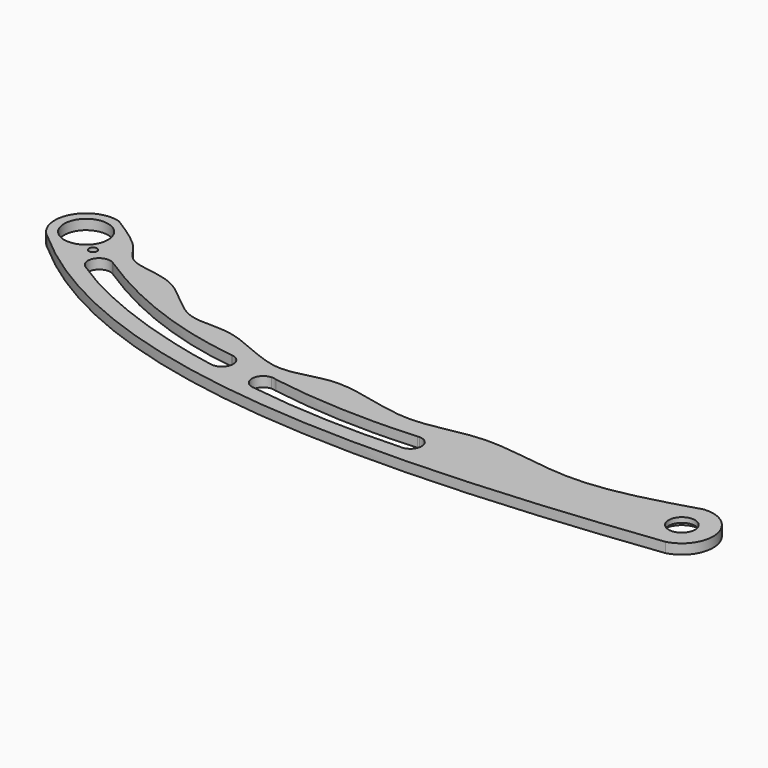
from build123d import *

# Parameters (mm, degrees)
F0_R      = 2.667
F0_R_2    = 4.445
F1_DEPTH  = 2.032
F2_R      = 3.81
F2_R_2    = 2.667
F3_DEPTH  = 1.016
F4_R      = 0.8255
F5_DEPTH  = 25.4
F6_R      = 1.27
F6_R_2    = 0.8255
F7_DEPTH  = 1.016
F8_DEPTH  = 1.016
F9_R      = 1.27
F9_R_2    = 0.8255
F9_R_3    = 3.81
F9_R_4    = 2.667
F10_DEPTH = 1.016


with BuildPart() as f1:
    # F0 (on Top) → F1 (new body)
    with BuildSketch(Plane.XY):
        with BuildLine():
            add(Edge.make_bspline(
                [(-161.8766367465, -26.7160857284), (-130.4493884094, -54.4638294888), (-80.5808308072, -54.6738259655), (-20.0722847609, -47.2300497458)],
                knots=[0, 0, 0, 0, 143.280483534, 143.280483534, 143.280483534, 143.280483534], degree=3))
            ThreePointArc((-20.0722847609, -47.2300497458), (-15.390001915, -39.9851293612), (-22.2514018559, -34.7569523483))
            add(Edge.make_bspline(
                [(-156.4800007469, -15.3977959233), (-153.6670469943, -17.1765727386), (-148.7731033235, -20.2587965776), (-146.6099811998, -25.8330587175), (-136.0128934045, -25.1342998567), (-128.3796792681, -35.5257497726), (-118.2156379975, -32.7590187221), (-105.6351490845, -41.2223918449), (-94.8487286588, -35.010807072), (-78.6016535491, -41.7378023992), (-64.4508698612, -35.8858094626), (-44.8537704329, -41.5304431339), (-30.0356448791, -37.0910134537), (-22.2514018559, -34.7569523483)],
                knots=[0, 0, 0, 0, 0.0778729538, 0.1353570321, 0.2133944217, 0.300436546, 0.3792539685, 0.4740248133, 0.5597806174, 0.6631841528, 0.7615873053, 0.8747557561, 1, 1, 1, 1], degree=3))
            ThreePointArc((-156.4800007469, -15.3977959233), (-164.000427073, -18.7577274432), (-161.8766367465, -26.7160857284))
        make_face()
        with BuildLine():
            ThreePointArc((-148.393819837, -27.0904692349), (-148.310357627, -27.1426555234), (-148.2292193976, -27.1983864569))
            add(Edge.make_bspline(
                [(-148.2292193976, -27.1983864569), (-137.6321480969, -34.1306532721), (-126.3183058185, -38.5379448266), (-113.7849666433, -40.1356662582)],
                knots=[0.1905782604, 0.1905782604, 0.1905782604, 0.1905782604, 36.9863141476, 36.9863141476, 36.9863141476, 36.9863141476], degree=3))
            ThreePointArc((-113.7849666433, -40.1356662582), (-113.6751067023, -40.14683148), (-113.5659141167, -40.1632889417))
            ThreePointArc((-113.5659141167, -40.1632889417), (-111.7187992975, -42.8596706899), (-114.4552984959, -44.646813612))
            add(Edge.make_bspline(
                [(-150.611741506, -31.0860356173), (-140.2867734432, -37.9869937897), (-126.2515187263, -42.5168909132), (-114.4552984959, -44.646813612)],
                knots=[0, 0, 0, 0, 38.6158396383, 38.6158396383, 38.6158396383, 38.6158396383], degree=3))
            ThreePointArc((-150.611741506, -31.0860356173), (-151.5624731778, -27.9449259977), (-148.393819837, -27.0904692349))
        make_face(mode=Mode.SUBTRACT)
        with BuildLine():
            ThreePointArc((-104.0907971602, -42.1303299726), (-103.5959305004, -42.1579114528), (-103.1186399475, -42.2915059031))
            add(Edge.make_bspline(
                [(-103.1186399475, -42.2915059031), (-93.7665900622, -43.8001112121), (-83.5344509582, -44.2502244434), (-73.3660695221, -43.5309403586)],
                knots=[1.0336368061, 1.0336368061, 1.0336368061, 1.0336368061, 30.7652598931, 30.7652598931, 30.7652598931, 30.7652598931], degree=3))
            ThreePointArc((-73.3660695221, -43.5309403586), (-73.161688582, -43.5068783258), (-72.9559718672, -43.5012941239))
            ThreePointArc((-72.9559718672, -43.5012941239), (-70.7192546717, -45.9826317274), (-73.3464785843, -48.0460353787))
            add(Edge.make_bspline(
                [(-104.0962413714, -46.6956290273), (-93.8536599278, -48.1598563492), (-83.6125984788, -48.5345311463), (-73.3464785843, -48.0460353787)],
                knots=[0, 0, 0, 0, 30.7794007215, 30.7794007215, 30.7794007215, 30.7794007215], degree=3))
            ThreePointArc((-104.0962413714, -46.6956290273), (-106.2558256689, -44.4104009059), (-104.0907971602, -42.1303299726))
        make_face(mode=Mode.SUBTRACT)
        with Locations((-21.6452580647, -41.0779562009)):
            Circle(F0_R, mode=Mode.SUBTRACT)
        with Locations((-158.2686344631, -21.490684354)):
            Circle(F0_R_2, mode=Mode.SUBTRACT)
    extrude(amount=F1_DEPTH)

    # F2 (on face) → F3 (cut)
    with BuildSketch(Plane.XY.offset(2.032)):
        with Locations((-21.6452580647, -41.0779562009)):
            Circle(F2_R)
        with Locations((-21.6452580647, -41.0779562009)):
            Circle(F2_R_2, mode=Mode.SUBTRACT)
    extrude(amount=-F3_DEPTH, mode=Mode.SUBTRACT)

    # F4 (on face) → F5 (cut)
    with BuildSketch(Plane.XY.offset(2.032)):
        with Locations((-153.5314321518, -25.6521515548)):
            Circle(F4_R)
    extrude(amount=-F5_DEPTH, mode=Mode.SUBTRACT)

    # F6 (on face) → F7 (cut)
    with BuildSketch(Plane.XY.offset(2.032)):
        with Locations((-153.5314321518, -25.6521515548)):
            Circle(F6_R)
        with Locations((-153.5314321518, -25.6521515548)):
            Circle(F6_R_2, mode=Mode.SUBTRACT)
    extrude(amount=-F7_DEPTH, mode=Mode.SUBTRACT)

    # F8 (add, through all): faces of the model
    f8_faces = [f1.faces().sort_by_distance(p)[0] for p in [
        (-25.3474949913, -41.0779562009, 1.016),
        (-154.7655111273, -25.6521515548, 1.016),
    ]]
    extrude(f8_faces, amount=F8_DEPTH)

    # F9 (on face) → F10 (cut)
    with BuildSketch(Plane(origin=(0, 0, 0), x_dir=(1, 0, 0), z_dir=(0, 0, -1))):
        with Locations((-153.5314321518, 25.6521515548)):
            Circle(F9_R)
        with Locations((-153.5314321518, 25.6521515548)):
            Circle(F9_R_2, mode=Mode.SUBTRACT)
        with Locations((-21.6452580647, 41.0779562009)):
            Circle(F9_R_3)
        with Locations((-21.6452580647, 41.0779562009)):
            Circle(F9_R_4, mode=Mode.SUBTRACT)
    extrude(amount=-F10_DEPTH, mode=Mode.SUBTRACT)


solid = f1.part
